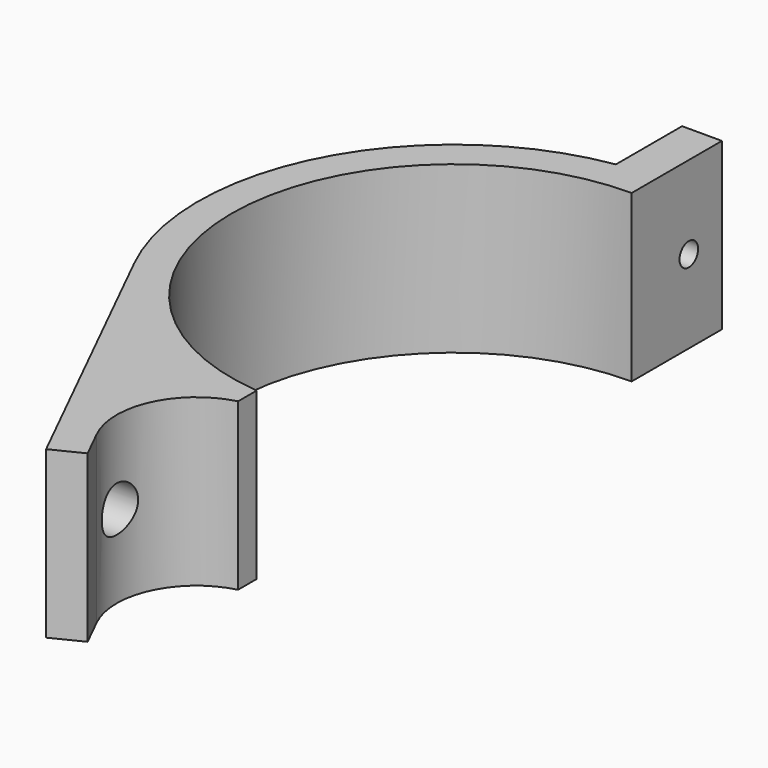
from build123d import *

# Parameters (mm, degrees)
F0_R      = 12
F0_R_2    = 33.5
F1_DEPTH  = 50
F4_DEPTH  = 25
F5_W      = 12
F5_H      = 25
F6_DEPTH  = 1
F7_DEPTH  = 12
F8_R      = 3.429
F9_DEPTH  = 30
F10_R     = 1.75
F11_DEPTH = 25
F12_W     = 6
F12_H     = 8.7619052733
F13_DEPTH = 55
F15_DEPTH = 52
F17_DEPTH = 50
F18_W     = 81.3058614731
F18_H     = 161.7973074317
F19_DEPTH = 50
F20_W     = 42.0657843351
F20_H     = 29.0236644447
F21_DEPTH = 250


with BuildPart() as f1:
    # F0 (on Top) → F1 (new body)
    with BuildSketch(Plane.XY):
        with BuildLine():
            ThreePointArc((34.510392045, 31.4329896907), (0, 87), (-34.510392045, 31.4329896907))
            Line((-34.510392045, 31.4329896907), (-15.238354929, -7.5360824742))
            ThreePointArc((-15.238354929, -7.5360824742), (0, -17), (15.238354929, -7.5360824742))
            Line((15.238354929, -7.5360824742), (34.510392045, 31.4329896907))
        make_face()
        Circle(F0_R, mode=Mode.SUBTRACT)
        with Locations((0, 48.5)):
            Circle(F0_R_2, mode=Mode.SUBTRACT)
    extrude(amount=F1_DEPTH)

    # F3 (on offset) → F4 (cut)
    with BuildSketch(Plane.XZ.offset(-87)):
        with BuildLine():
            add(Edge.make_bspline(
                [(17.5, 50), (17.5, 73), (0, 73), (-17.5, 73), (-17.5, 50)],
                knots=[1.5707963268, 1.5707963268, 1.5707963268, 3.1415926536, 3.1415926536, 4.7123889804, 4.7123889804, 4.7123889804], degree=2, weights=[1, 0.7071067812, 1, 0.7071067812, 1]))
            Line((-17.5, 50), (17.5, 50))
        make_face()
        with BuildLine():
            Line((17.5, 50), (-17.5, 50))
            add(Edge.make_bspline(
                [(-17.5, 50), (-17.5, 27), (0, 27)],
                knots=[4.7123889804, 4.7123889804, 4.7123889804, 6.2831853072, 6.2831853072, 6.2831853072], degree=2, weights=[1, 0.7071067812, 1]))
            add(Edge.make_bspline(
                [(0, 27), (17.5, 27), (17.5, 50)],
                knots=[0, 0, 0, 1.5707963268, 1.5707963268, 1.5707963268], degree=2, weights=[1, 0.7071067812, 1]))
        make_face()
    extrude(amount=F4_DEPTH, mode=Mode.SUBTRACT)

    # F5 (on offset) → F6 (join)
    with BuildSketch(Plane.XZ.offset(-87)):
        with Locations((0, 12.5)):
            Rectangle(F5_W, F5_H)
    extrude(amount=F6_DEPTH)

    # F5 (on offset) → F7 (join)
    with BuildSketch(Plane.XZ.offset(-87)):
        with Locations((0, 12.5)):
            Rectangle(F5_W, F5_H)
    extrude(amount=-F7_DEPTH)

    # F8 (on Right) → F9 (cut, symmetric)
    with BuildSketch(Plane.YZ):
        with Locations((0, 12.5)):
            Circle(F8_R)
    extrude(amount=F9_DEPTH, both=True, mode=Mode.SUBTRACT)

    # F10 (on face) → F11 (cut)
    with BuildSketch(Plane(origin=(-6, 0, 0), x_dir=(0, -1, 0), z_dir=(-1, 0, 0))):
        with Locations((-92.7647968698, 12.5)):
            Circle(F10_R)
    extrude(amount=-F11_DEPTH, mode=Mode.SUBTRACT)

    # F12 (on face) → F13 (cut)
    with BuildSketch(Plane.XY.offset(50)):
        with Locations((0, 13.4115335532)):
            Rectangle(F12_W, F12_H)
    extrude(amount=-F13_DEPTH, mode=Mode.SUBTRACT)

    # F14 (on face) → F15 (cut)
    with BuildSketch(Plane.XY.offset(50)):
        with BuildLine():
            ThreePointArc((10.7564858322, -5.3195876289), (0, -12), (-10.7564858322, -5.3195876289))
            Line((-10.7564858322, -5.3195876289), (-15.238354929, -7.5360824742))
            ThreePointArc((-15.238354929, -7.5360824742), (0, -17), (15.238354929, -7.5360824742))
            Line((15.238354929, -7.5360824742), (10.7564858322, -5.3195876289))
        make_face()
    extrude(amount=-F15_DEPTH, mode=Mode.SUBTRACT)

    # F16 (on Top) → F17 (join)
    with BuildSketch(Plane.XY):
        Polygon((-10.7564858322, -5.3195876289), (-15.238354929, -7.5360824742), (-13.0218600836, -12.017951571), (-8.5399909869, -9.8014567256), align=None)
        Polygon((13.0218600836, -12.017951571), (15.238354929, -7.5360824742), (10.7564858322, -5.3195876289), (8.5399909869, -9.8014567256), align=None)
    extrude(amount=F17_DEPTH)

    # F18 (on Top) → F19 (cut)
    with BuildSketch(Plane.XY):
        with Locations((40.6529307365, 33.7636955082)):
            Rectangle(F18_W, F18_H)
    extrude(amount=F19_DEPTH, mode=Mode.SUBTRACT)

    # F20 (on Front) → F21 (cut, symmetric)
    with BuildSketch(Plane.XZ):
        with Locations((-21.0328921676, 39.5118322223)):
            Rectangle(F20_W, F20_H)
    extrude(amount=F21_DEPTH, both=True, mode=Mode.SUBTRACT)


solid = f1.part
